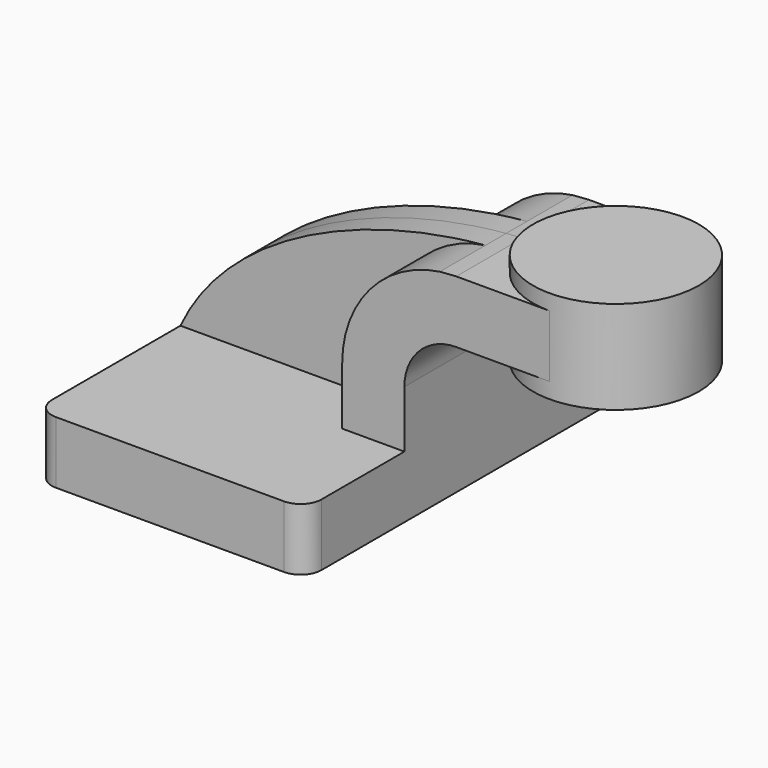
from build123d import *

# Parameters (mm, degrees)
F1_DEPTH = 25
F0_W     = 10
F0_H     = 7.5
F2_DEPTH = 10
F3_DEPTH = 3.125
F5_R     = 2.5


with BuildPart() as f1:
    # F0 (on Front) → F1 (new body, symmetric)
    with BuildSketch(Plane.XZ):
        Polygon((-16.25, -3.75), (16.25, -3.75), (16.25, 3.75), (8.75, 3.75), (-16.25, 3.75), align=None)
    extrude(amount=F1_DEPTH, both=True)

    # F0 (on Front) → F2 (join, symmetric)
    with BuildSketch(Plane.XZ):
        with Locations((28.75, 20.63)):
            Rectangle(F0_W, F0_H)
        with BuildLine():
            Line((8.75, 3.75), (16.25, 3.75))
            Line((16.25, 3.75), (16.25, 10.63))
            ThreePointArc((16.25, 10.63), (18.080583, 15.049417), (22.5, 16.88))
            Line((22.5, 16.88), (23.75, 16.88))
            Line((23.75, 16.88), (23.75, 24.38))
            Line((23.75, 24.38), (22.5, 24.38))
            add(Edge.make_bspline(
                [(20.527115, 24.237727), (21.188051, 24.296236), (21.846037, 24.343663), (22.5, 24.38)],
                knots=[42.021678, 42.021678, 42.021678, 42.021678, 43.899424, 43.899424, 43.899424, 43.899424], degree=3))
            ThreePointArc((20.527115, 24.237727), (12.103133, 19.628204), (8.75, 10.63))
            Line((8.75, 10.63), (8.75, 3.75))
        make_face()
    extrude(amount=F2_DEPTH, both=True)

    # F0 (on Front) → F3 (join, symmetric)
    with BuildSketch(Plane.XZ):
        with BuildLine():
            add(Edge.make_bspline(
                [(-16.25, 3.75), (-10.531949, 16.068907), (5.736173, 22.928358), (20.527115, 24.237727)],
                knots=[0, 0, 0, 0, 42.021678, 42.021678, 42.021678, 42.021678], degree=3))
            Line((-16.25, 3.75), (8.75, 3.75))
            Line((8.75, 3.75), (8.75, 10.63))
            ThreePointArc((8.75, 10.63), (12.103133, 19.628204), (20.527115, 24.237727))
        make_face()
    extrude(amount=F3_DEPTH, both=True)

    # F0 (on Front) → F4 (revolve)
    with BuildSketch(Plane.XZ):
        Polygon((33.75, 24.38), (33.75, 16.88), (33.75, 15), (43.75, 15), (43.75, 26.25), (33.75, 26.25), align=None)
    revolve(axis=Axis((33.75, 0, 20.625), (0, 0, 1)))

    # F5
    f5_edges = [f1.edges().sort_by_distance(p)[0] for p in [
        (16.25, -25, 0),
        (-16.25, -25, 0),
        (16.25, 25, 0),
        (-16.25, 25, 0),
    ]]
    fillet(f5_edges, radius=F5_R)


solid = f1.part
